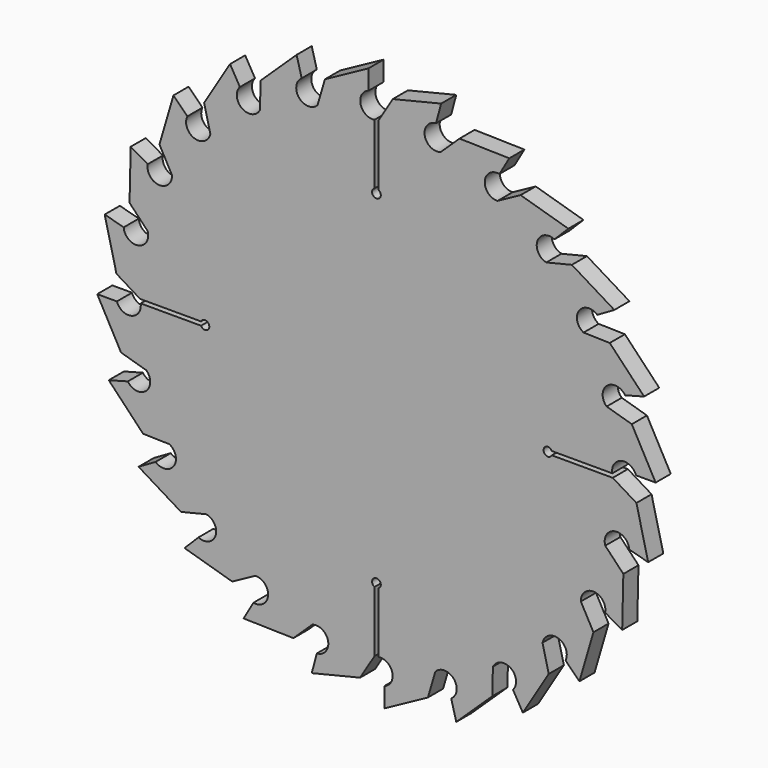
from build123d import *

# Parameters (mm, degrees)
F0_R     = 38.1
F1_DEPTH = 1.27
F3_DEPTH = 2.54
F5_DEPTH = 2.541


with BuildPart() as f1:
    # F0 (on Front) → F1 (new body, symmetric)
    with BuildSketch(Plane.XZ):
        Circle(F0_R)
    extrude(amount=F1_DEPTH, both=True)

    # F2 (on face) → F3 (cut, through all)
    with BuildSketch(Plane.XZ.offset(1.27)):
        with BuildLine():
            Line((-34.9328910038, 2.1948725499), (-36.7977497972, 9.8760118399))
            ThreePointArc((-36.7977497972, 9.8760118399), (-37.8382958676, 4.4579553426), (-38.0854299426, -1.0535777546))
            Line((-38.0854299426, -1.0535777546), (-34.8715856671, -1.0535777546))
            ThreePointArc((-34.8715856671, -1.0535777546), (-32.9092700161, -2.1243996615), (-31.6864005445, -0.2530545501))
            Line((-31.6864005445, -0.2530545501), (-23.5669963196, -0.2530545501))
            ThreePointArc((-23.5669963196, -0.2530545501), (-22.4566065273, 0.0009454499), (-23.5669963196, 0.2549454499))
            Line((-23.5669963196, 0.2549454499), (-31.7489764058, 0.2549454499))
            Line((-31.7489764058, 0.2549454499), (-34.9328910038, 2.1948725499))
        make_face()
        with BuildLine():
            Line((0.2530545501, -31.6864005445), (0.2530545501, -23.5669963196))
            ThreePointArc((0.2530545501, -23.5669963196), (-0.0009454499, -22.4566065273), (-0.2549454499, -23.5669963196))
            Line((-0.2549454499, -23.5669963196), (-0.2549454499, -31.7489764058))
            Line((-0.2549454499, -31.7489764058), (-2.1948725499, -34.9328910038))
            Line((-2.1948725499, -34.9328910038), (-9.8760118399, -36.7977497972))
            ThreePointArc((-9.8760118399, -36.7977497972), (-4.4579553426, -37.8382958676), (1.0535777546, -38.0854299426))
            Line((1.0535777546, -38.0854299426), (1.0535777546, -34.8715856671))
            ThreePointArc((1.0535777546, -34.8715856671), (2.1243996615, -32.9092700161), (0.2530545501, -31.6864005445))
        make_face()
        with BuildLine():
            Line((31.6864005445, 0.2530545501), (23.5669963196, 0.2530545501))
            ThreePointArc((23.5669963196, 0.2530545501), (22.4566065273, -0.0009454499), (23.5669963196, -0.2549454499))
            Line((23.5669963196, -0.2549454499), (31.7489764058, -0.2549454499))
            Line((31.7489764058, -0.2549454499), (34.9328910038, -2.1948725499))
            Line((34.9328910038, -2.1948725499), (36.7977497972, -9.8760118399))
            ThreePointArc((36.7977497972, -9.8760118399), (37.8382958676, -4.4579553426), (38.0854299426, 1.0535777546))
            Line((38.0854299426, 1.0535777546), (34.8715856671, 1.0535777546))
            ThreePointArc((34.8715856671, 1.0535777546), (32.9092700161, 2.1243996615), (31.6864005445, 0.2530545501))
        make_face()
        with BuildLine():
            Line((-0.2530545501, 31.6864005445), (-0.2530545501, 23.5669963196))
            ThreePointArc((-0.2530545501, 23.5669963196), (0.0009454499, 22.4566065273), (0.2549454499, 23.5669963196))
            Line((0.2549454499, 23.5669963196), (0.2549454499, 31.7489764058))
            Line((0.2549454499, 31.7489764058), (2.1948725499, 34.9328910038))
            Line((2.1948725499, 34.9328910038), (9.8760118399, 36.7977497972))
            ThreePointArc((9.8760118399, 36.7977497972), (4.4579553426, 37.8382958676), (-1.0535777546, 38.0854299426))
            Line((-1.0535777546, 38.0854299426), (-1.0535777546, 34.8715856671))
            ThreePointArc((-1.0535777546, 34.8715856671), (-2.1243996615, 32.9092700161), (-0.2530545501, 31.6864005445))
        make_face()
    extrude(amount=-F3_DEPTH, mode=Mode.SUBTRACT)

    # F4 (on face) + F1_face1 (on face) → F5 (cut, through all)
    with BuildSketch(Plane.XZ.offset(1.27)):
        with BuildLine():
            ThreePointArc((-33.5097387217, 18.1302898709), (-35.3951834564, 14.0993258026), (-36.7977497972, 9.8760118399))
            Line((-36.7977497972, 9.8760118399), (-36.5103317646, 8.6921699581))
            Line((-36.5103317646, 8.6921699581), (-33.9560511879, 8.0077525404))
            ThreePointArc((-33.9560511879, 8.0077525404), (-32.0081116741, 6.4936248892), (-30.7420684828, 8.611214446))
            Line((-30.7420684828, 8.611214446), (-33.17450679, 11.1613815736))
            Line((-33.17450679, 11.1613815736), (-33.0165732493, 17.8455606527))
            Line((-33.0165732493, 17.8455606527), (-33.5097387217, 18.1302898709))
        make_face()
        with BuildLine():
            Line((-36.5103317646, 8.6921699581), (-36.7977497972, 9.8760118399))
            ThreePointArc((-36.7977497972, 9.8760118399), (-36.9327040651, 9.3587055963), (-37.0603863753, 8.8395566469))
            Line((-37.0603863753, 8.8395566469), (-36.5103317646, 8.6921699581))
        make_face()
        with BuildLine():
            Line((-34.9328910038, 2.1948725499), (-36.5103317646, 8.6921699581))
            Line((-36.5103317646, 8.6921699581), (-37.0603863753, 8.8395566469))
            ThreePointArc((-37.0603863753, 8.8395566469), (-37.8382958676, 4.4579553426), (-38.0999968323, 0.0155364324))
            Line((-38.0999968323, 0.0155364324), (-37.5159715062, -1.0535777546))
            Line((-37.5159715062, -1.0535777546), (-34.8715856671, -1.0535777546))
            ThreePointArc((-34.8715856671, -1.0535777546), (-32.5981355098, -2.0119489123), (-31.9233042012, 0.36116162))
            Line((-31.9233042012, 0.36116162), (-34.9328910038, 2.1948725499))
        make_face()
        with BuildLine():
            ThreePointArc((-32.9877969246, 19.0634533613), (-33.2520414454, 18.5987026353), (-33.5097387217, 18.1302898709))
            Line((-33.5097387217, 18.1302898709), (-33.0165732493, 17.8455606527))
            Line((-33.0165732493, 17.8455606527), (-32.9877969246, 19.0634533613))
        make_face()
        with BuildLine():
            Line((-37.5159715062, -1.0535777546), (-38.0999968323, 0.0155364324))
            ThreePointArc((-38.0999968323, 0.0155364324), (-38.096463937, -0.5190717631), (-38.0854299426, -1.0535777546))
            Line((-38.0854299426, -1.0535777546), (-37.5159715062, -1.0535777546))
        make_face()
        with BuildLine():
            ThreePointArc((-27.6754577517, 26.185473802), (-30.539947786, 22.7798505094), (-32.9877969246, 19.0634533613))
            Line((-32.9877969246, 19.0634533613), (-33.0165732493, 17.8455606527))
            Line((-33.0165732493, 17.8455606527), (-30.7264679353, 16.5233677332))
            ThreePointArc((-30.7264679353, 16.5233677332), (-29.2367879237, 14.5566688857), (-27.465811601, 16.2744272383))
            Line((-27.465811601, 16.2744272383), (-29.155334762, 19.3672608881))
            Line((-29.155334762, 19.3672608881), (-27.2727898297, 25.78280588))
            Line((-27.2727898297, 25.78280588), (-27.6754577517, 26.185473802))
        make_face()
        with BuildLine():
            Line((-37.5159715062, -1.0535777546), (-38.0854299426, -1.0535777546))
            ThreePointArc((-38.0854299426, -1.0535777546), (-37.7027909462, -5.4872174069), (-36.8057920464, -9.8459977572))
            Line((-36.8057920464, -9.8459977572), (-35.9649597878, -10.7275258845))
            Line((-35.9649597878, -10.7275258845), (-33.4106792111, -10.0431084668))
            ThreePointArc((-33.4106792111, -10.0431084668), (-30.9666502816, -10.3804117204), (-30.929019494, -7.9135037737))
            Line((-30.929019494, -7.9135037737), (-34.310656425, -6.9212134109))
            Line((-34.310656425, -6.9212134109), (-37.5159715062, -1.0535777546))
        make_face()
        with BuildLine():
            ThreePointArc((-26.9297802065, 26.95175204), (-27.3053071527, 26.5712288255), (-27.6754577517, 26.185473802))
            Line((-27.6754577517, 26.185473802), (-27.2727898297, 25.78280588))
            Line((-27.2727898297, 25.78280588), (-26.9297802065, 26.95175204))
        make_face()
        with BuildLine():
            Line((-35.9649597878, -10.7275258845), (-36.8057920464, -9.8459977572))
            ThreePointArc((-36.8057920464, -9.8459977572), (-36.664012749, -10.3614752396), (-36.5150143985, -10.8749125733))
            Line((-36.5150143985, -10.8749125733), (-35.9649597878, -10.7275258845))
        make_face()
        with BuildLine():
            ThreePointArc((-19.9551400717, 32.456160967), (-23.6034651436, 29.9079660495), (-26.9297802065, 26.95175204))
            Line((-26.9297802065, 26.95175204), (-27.2727898297, 25.78280588))
            Line((-27.2727898297, 25.78280588), (-25.4029266708, 23.9129427211))
            ThreePointArc((-25.4029266708, 23.9129427211), (-24.4730253924, 21.6276999538), (-22.317805048, 22.8285647091))
            Line((-22.317805048, 22.8285647091), (-23.1492748514, 26.2532933791))
            Line((-23.1492748514, 26.2532933791), (-19.6704108535, 31.9629954947))
            Line((-19.6704108535, 31.9629954947), (-19.9551400717, 32.456160967))
        make_face()
        with BuildLine():
            Line((-35.9649597878, -10.7275258845), (-36.5150143985, -10.8749125733))
            ThreePointArc((-36.5150143985, -10.8749125733), (-34.9979031285, -15.0584453582), (-33.0033333571, -19.036543471))
            Line((-33.0033333571, -19.036543471), (-31.9629954947, -19.6704108535))
            Line((-31.9629954947, -19.6704108535), (-29.6728901807, -18.348217934))
            ThreePointArc((-29.6728901807, -18.348217934), (-27.2248390114, -18.0414666241), (-27.8269732209, -15.6488769628))
            Line((-27.8269732209, -15.6488769628), (-31.3502073118, -15.5656301156))
            Line((-31.3502073118, -15.5656301156), (-35.9649597878, -10.7275258845))
        make_face()
        with BuildLine():
            ThreePointArc((-19.036543471, 33.0033333571), (-19.4977613017, 32.7329696823), (-19.9551400717, 32.456160967))
            Line((-19.9551400717, 32.456160967), (-19.6704108535, 31.9629954947))
            Line((-19.6704108535, 31.9629954947), (-19.036543471, 33.0033333571))
        make_face()
        with BuildLine():
            Line((-31.9629954947, -19.6704108535), (-33.0033333571, -19.036543471))
            ThreePointArc((-33.0033333571, -19.036543471), (-32.7329696823, -19.4977613017), (-32.456160967, -19.9551400717))
            Line((-32.456160967, -19.9551400717), (-31.9629954947, -19.6704108535))
        make_face()
        with BuildLine():
            ThreePointArc((-10.8749125733, 36.5150143985), (-15.0584453582, 34.9979031285), (-19.036543471, 33.0033333571))
            Line((-19.036543471, 33.0033333571), (-19.6704108535, 31.9629954947))
            Line((-19.6704108535, 31.9629954947), (-18.348217934, 29.6728901807))
            ThreePointArc((-18.348217934, 29.6728901807), (-18.0414666241, 27.2248390114), (-15.6488769628, 27.8269732209))
            Line((-15.6488769628, 27.8269732209), (-15.5656301156, 31.3502073118))
            Line((-15.5656301156, 31.3502073118), (-10.7275258845, 35.9649597878))
            Line((-10.7275258845, 35.9649597878), (-10.8749125733, 36.5150143985))
        make_face()
        with BuildLine():
            Line((-31.9629954947, -19.6704108535), (-32.456160967, -19.9551400717))
            ThreePointArc((-32.456160967, -19.9551400717), (-29.9079660495, -23.6034651436), (-26.95175204, -26.9297802065))
            Line((-26.95175204, -26.9297802065), (-25.78280588, -27.2727898297))
            Line((-25.78280588, -27.2727898297), (-23.9129427211, -25.4029266708))
            ThreePointArc((-23.9129427211, -25.4029266708), (-21.6276999538, -24.4730253924), (-22.8285647091, -22.317805048))
            Line((-22.8285647091, -22.317805048), (-26.2532933791, -23.1492748514))
            Line((-26.2532933791, -23.1492748514), (-31.9629954947, -19.6704108535))
        make_face()
        with BuildLine():
            ThreePointArc((-9.8459977572, 36.8057920464), (-10.3614752396, 36.664012749), (-10.8749125733, 36.5150143985))
            Line((-10.8749125733, 36.5150143985), (-10.7275258845, 35.9649597878))
            Line((-10.7275258845, 35.9649597878), (-9.8459977572, 36.8057920464))
        make_face()
        with BuildLine():
            Line((-25.78280588, -27.2727898297), (-26.95175204, -26.9297802065))
            ThreePointArc((-26.95175204, -26.9297802065), (-26.5712288255, -27.3053071527), (-26.185473802, -27.6754577517))
            Line((-26.185473802, -27.6754577517), (-25.78280588, -27.2727898297))
        make_face()
        with BuildLine():
            ThreePointArc((-1.0535777546, 38.0854299426), (-5.4872174069, 37.7027909462), (-9.8459977572, 36.8057920464))
            Line((-9.8459977572, 36.8057920464), (-10.7275258845, 35.9649597878))
            Line((-10.7275258845, 35.9649597878), (-10.0431084668, 33.4106792111))
            ThreePointArc((-10.0431084668, 33.4106792111), (-10.3804117204, 30.9666502816), (-7.9135037737, 30.929019494))
            Line((-7.9135037737, 30.929019494), (-6.9212134109, 34.310656425))
            Line((-6.9212134109, 34.310656425), (-1.0535777546, 37.5159715062))
            Line((-1.0535777546, 37.5159715062), (-1.0535777546, 38.0854299426))
        make_face()
        with BuildLine():
            Line((-25.78280588, -27.2727898297), (-26.185473802, -27.6754577517))
            ThreePointArc((-26.185473802, -27.6754577517), (-22.7798505094, -30.539947786), (-19.0634533613, -32.9877969246))
            Line((-19.0634533613, -32.9877969246), (-17.8455606527, -33.0165732493))
            Line((-17.8455606527, -33.0165732493), (-16.5233677332, -30.7264679353))
            ThreePointArc((-16.5233677332, -30.7264679353), (-14.5566688857, -29.2367879237), (-16.2744272383, -27.465811601))
            Line((-16.2744272383, -27.465811601), (-19.3672608881, -29.155334762))
            Line((-19.3672608881, -29.155334762), (-25.78280588, -27.2727898297))
        make_face()
        with BuildLine():
            ThreePointArc((0.0155364324, 38.0999968323), (-0.5190717631, 38.096463937), (-1.0535777546, 38.0854299426))
            Line((-1.0535777546, 38.0854299426), (-1.0535777546, 37.5159715062))
            Line((-1.0535777546, 37.5159715062), (0.0155364324, 38.0999968323))
        make_face()
        with BuildLine():
            Line((-17.8455606527, -33.0165732493), (-19.0634533613, -32.9877969246))
            ThreePointArc((-19.0634533613, -32.9877969246), (-18.5987026353, -33.2520414454), (-18.1302898709, -33.5097387217))
            Line((-18.1302898709, -33.5097387217), (-17.8455606527, -33.0165732493))
        make_face()
        with BuildLine():
            ThreePointArc((8.8395566469, 37.0603863753), (4.4579553426, 37.8382958676), (0.0155364324, 38.0999968323))
            Line((0.0155364324, 38.0999968323), (-1.0535777546, 37.5159715062))
            Line((-1.0535777546, 37.5159715062), (-1.0535777546, 34.8715856671))
            ThreePointArc((-1.0535777546, 34.8715856671), (-2.0119489123, 32.5981355098), (0.36116162, 31.9233042012))
            Line((0.36116162, 31.9233042012), (2.1948725499, 34.9328910038))
            Line((2.1948725499, 34.9328910038), (8.6921699581, 36.5103317646))
            Line((8.6921699581, 36.5103317646), (8.8395566469, 37.0603863753))
        make_face()
        with BuildLine():
            Line((-17.8455606527, -33.0165732493), (-18.1302898709, -33.5097387217))
            ThreePointArc((-18.1302898709, -33.5097387217), (-14.0993258026, -35.3951834564), (-9.8760118399, -36.7977497972))
            Line((-9.8760118399, -36.7977497972), (-8.6921699581, -36.5103317646))
            Line((-8.6921699581, -36.5103317646), (-8.0077525404, -33.9560511879))
            ThreePointArc((-8.0077525404, -33.9560511879), (-6.4936248892, -32.0081116741), (-8.611214446, -30.7420684828))
            Line((-8.611214446, -30.7420684828), (-11.1613815736, -33.17450679))
            Line((-11.1613815736, -33.17450679), (-17.8455606527, -33.0165732493))
        make_face()
        with BuildLine():
            ThreePointArc((9.8760118399, 36.7977497972), (9.3587055963, 36.9327040651), (8.8395566469, 37.0603863753))
            Line((8.8395566469, 37.0603863753), (8.6921699581, 36.5103317646))
            Line((8.6921699581, 36.5103317646), (9.8760118399, 36.7977497972))
        make_face()
        with BuildLine():
            Line((-8.6921699581, -36.5103317646), (-9.8760118399, -36.7977497972))
            ThreePointArc((-9.8760118399, -36.7977497972), (-9.3587055963, -36.9327040651), (-8.8395566469, -37.0603863753))
            Line((-8.8395566469, -37.0603863753), (-8.6921699581, -36.5103317646))
        make_face()
        with BuildLine():
            ThreePointArc((18.1302898709, 33.5097387217), (14.0993258026, 35.3951834564), (9.8760118399, 36.7977497972))
            Line((9.8760118399, 36.7977497972), (8.6921699581, 36.5103317646))
            Line((8.6921699581, 36.5103317646), (8.0077525404, 33.9560511879))
            ThreePointArc((8.0077525404, 33.9560511879), (6.4936248892, 32.0081116741), (8.611214446, 30.7420684828))
            Line((8.611214446, 30.7420684828), (11.1613815736, 33.17450679))
            Line((11.1613815736, 33.17450679), (17.8455606527, 33.0165732493))
            Line((17.8455606527, 33.0165732493), (18.1302898709, 33.5097387217))
        make_face()
        with BuildLine():
            Line((-8.6921699581, -36.5103317646), (-8.8395566469, -37.0603863753))
            ThreePointArc((-8.8395566469, -37.0603863753), (-4.4579553426, -37.8382958676), (-0.0155364324, -38.0999968323))
            Line((-0.0155364324, -38.0999968323), (1.0535777546, -37.5159715062))
            Line((1.0535777546, -37.5159715062), (1.0535777546, -34.8715856671))
            ThreePointArc((1.0535777546, -34.8715856671), (2.0119489123, -32.5981355098), (-0.36116162, -31.9233042012))
            Line((-0.36116162, -31.9233042012), (-2.1948725499, -34.9328910038))
            Line((-2.1948725499, -34.9328910038), (-8.6921699581, -36.5103317646))
        make_face()
        with BuildLine():
            ThreePointArc((19.0634533613, 32.9877969246), (18.5987026353, 33.2520414454), (18.1302898709, 33.5097387217))
            Line((18.1302898709, 33.5097387217), (17.8455606527, 33.0165732493))
            Line((17.8455606527, 33.0165732493), (19.0634533613, 32.9877969246))
        make_face()
        with BuildLine():
            Line((1.0535777546, -37.5159715062), (-0.0155364324, -38.0999968323))
            ThreePointArc((-0.0155364324, -38.0999968323), (0.5190717631, -38.096463937), (1.0535777546, -38.0854299426))
            Line((1.0535777546, -38.0854299426), (1.0535777546, -37.5159715062))
        make_face()
        with BuildLine():
            ThreePointArc((26.185473802, 27.6754577517), (22.7798505094, 30.539947786), (19.0634533613, 32.9877969246))
            Line((19.0634533613, 32.9877969246), (17.8455606527, 33.0165732493))
            Line((17.8455606527, 33.0165732493), (16.5233677332, 30.7264679353))
            ThreePointArc((16.5233677332, 30.7264679353), (14.5566688857, 29.2367879237), (16.2744272383, 27.465811601))
            Line((16.2744272383, 27.465811601), (19.3672608881, 29.155334762))
            Line((19.3672608881, 29.155334762), (25.78280588, 27.2727898297))
            Line((25.78280588, 27.2727898297), (26.185473802, 27.6754577517))
        make_face()
        with BuildLine():
            Line((1.0535777546, -37.5159715062), (1.0535777546, -38.0854299426))
            ThreePointArc((1.0535777546, -38.0854299426), (5.4872174069, -37.7027909462), (9.8459977572, -36.8057920464))
            Line((9.8459977572, -36.8057920464), (10.7275258845, -35.9649597878))
            Line((10.7275258845, -35.9649597878), (10.0431084668, -33.4106792111))
            ThreePointArc((10.0431084668, -33.4106792111), (10.3804117204, -30.9666502816), (7.9135037737, -30.929019494))
            Line((7.9135037737, -30.929019494), (6.9212134109, -34.310656425))
            Line((6.9212134109, -34.310656425), (1.0535777546, -37.5159715062))
        make_face()
        with BuildLine():
            ThreePointArc((26.95175204, 26.9297802065), (26.5712288255, 27.3053071527), (26.185473802, 27.6754577517))
            Line((26.185473802, 27.6754577517), (25.78280588, 27.2727898297))
            Line((25.78280588, 27.2727898297), (26.95175204, 26.9297802065))
        make_face()
        with BuildLine():
            Line((10.7275258845, -35.9649597878), (9.8459977572, -36.8057920464))
            ThreePointArc((9.8459977572, -36.8057920464), (10.3614752396, -36.664012749), (10.8749125733, -36.5150143985))
            Line((10.8749125733, -36.5150143985), (10.7275258845, -35.9649597878))
        make_face()
        with BuildLine():
            ThreePointArc((32.456160967, 19.9551400717), (29.9079660495, 23.6034651436), (26.95175204, 26.9297802065))
            Line((26.95175204, 26.9297802065), (25.78280588, 27.2727898297))
            Line((25.78280588, 27.2727898297), (23.9129427211, 25.4029266708))
            ThreePointArc((23.9129427211, 25.4029266708), (21.6276999538, 24.4730253924), (22.8285647091, 22.317805048))
            Line((22.8285647091, 22.317805048), (26.2532933791, 23.1492748514))
            Line((26.2532933791, 23.1492748514), (31.9629954947, 19.6704108535))
            Line((31.9629954947, 19.6704108535), (32.456160967, 19.9551400717))
        make_face()
        with BuildLine():
            Line((10.7275258845, -35.9649597878), (10.8749125733, -36.5150143985))
            ThreePointArc((10.8749125733, -36.5150143985), (15.0584453582, -34.9979031285), (19.036543471, -33.0033333571))
            Line((19.036543471, -33.0033333571), (19.6704108535, -31.9629954947))
            Line((19.6704108535, -31.9629954947), (18.348217934, -29.6728901807))
            ThreePointArc((18.348217934, -29.6728901807), (18.0414666241, -27.2248390114), (15.6488769628, -27.8269732209))
            Line((15.6488769628, -27.8269732209), (15.5656301156, -31.3502073118))
            Line((15.5656301156, -31.3502073118), (10.7275258845, -35.9649597878))
        make_face()
        with BuildLine():
            ThreePointArc((33.0033333571, 19.036543471), (32.7329696823, 19.4977613017), (32.456160967, 19.9551400717))
            Line((32.456160967, 19.9551400717), (31.9629954947, 19.6704108535))
            Line((31.9629954947, 19.6704108535), (33.0033333571, 19.036543471))
        make_face()
        with BuildLine():
            Line((19.6704108535, -31.9629954947), (19.036543471, -33.0033333571))
            ThreePointArc((19.036543471, -33.0033333571), (19.4977613017, -32.7329696823), (19.9551400717, -32.456160967))
            Line((19.9551400717, -32.456160967), (19.6704108535, -31.9629954947))
        make_face()
        with BuildLine():
            ThreePointArc((36.5150143985, 10.8749125733), (34.9979031285, 15.0584453582), (33.0033333571, 19.036543471))
            Line((33.0033333571, 19.036543471), (31.9629954947, 19.6704108535))
            Line((31.9629954947, 19.6704108535), (29.6728901807, 18.348217934))
            ThreePointArc((29.6728901807, 18.348217934), (27.2248390114, 18.0414666241), (27.8269732209, 15.6488769628))
            Line((27.8269732209, 15.6488769628), (31.3502073118, 15.5656301156))
            Line((31.3502073118, 15.5656301156), (35.9649597878, 10.7275258845))
            Line((35.9649597878, 10.7275258845), (36.5150143985, 10.8749125733))
        make_face()
        with BuildLine():
            Line((19.6704108535, -31.9629954947), (19.9551400717, -32.456160967))
            ThreePointArc((19.9551400717, -32.456160967), (23.6034651436, -29.9079660495), (26.9297802065, -26.95175204))
            Line((26.9297802065, -26.95175204), (27.2727898297, -25.78280588))
            Line((27.2727898297, -25.78280588), (25.4029266708, -23.9129427211))
            ThreePointArc((25.4029266708, -23.9129427211), (24.4730253924, -21.6276999538), (22.317805048, -22.8285647091))
            Line((22.317805048, -22.8285647091), (23.1492748514, -26.2532933791))
            Line((23.1492748514, -26.2532933791), (19.6704108535, -31.9629954947))
        make_face()
        with BuildLine():
            ThreePointArc((36.8057920464, 9.8459977572), (36.664012749, 10.3614752396), (36.5150143985, 10.8749125733))
            Line((36.5150143985, 10.8749125733), (35.9649597878, 10.7275258845))
            Line((35.9649597878, 10.7275258845), (36.8057920464, 9.8459977572))
        make_face()
        with BuildLine():
            Line((27.2727898297, -25.78280588), (26.9297802065, -26.95175204))
            ThreePointArc((26.9297802065, -26.95175204), (27.3053071527, -26.5712288255), (27.6754577517, -26.185473802))
            Line((27.6754577517, -26.185473802), (27.2727898297, -25.78280588))
        make_face()
        with BuildLine():
            ThreePointArc((38.0854299426, 1.0535777546), (37.7027909462, 5.4872174069), (36.8057920464, 9.8459977572))
            Line((36.8057920464, 9.8459977572), (35.9649597878, 10.7275258845))
            Line((35.9649597878, 10.7275258845), (33.4106792111, 10.0431084668))
            ThreePointArc((33.4106792111, 10.0431084668), (30.9666502816, 10.3804117204), (30.929019494, 7.9135037737))
            Line((30.929019494, 7.9135037737), (34.310656425, 6.9212134109))
            Line((34.310656425, 6.9212134109), (37.5159715062, 1.0535777546))
            Line((37.5159715062, 1.0535777546), (38.0854299426, 1.0535777546))
        make_face()
        with BuildLine():
            Line((27.2727898297, -25.78280588), (27.6754577517, -26.185473802))
            ThreePointArc((27.6754577517, -26.185473802), (30.539947786, -22.7798505094), (32.9877969246, -19.0634533613))
            Line((32.9877969246, -19.0634533613), (33.0165732493, -17.8455606527))
            Line((33.0165732493, -17.8455606527), (30.7264679353, -16.5233677332))
            ThreePointArc((30.7264679353, -16.5233677332), (29.2367879237, -14.5566688857), (27.465811601, -16.2744272383))
            Line((27.465811601, -16.2744272383), (29.155334762, -19.3672608881))
            Line((29.155334762, -19.3672608881), (27.2727898297, -25.78280588))
        make_face()
        with BuildLine():
            ThreePointArc((38.0999968323, -0.0155364324), (38.096463937, 0.5190717631), (38.0854299426, 1.0535777546))
            Line((38.0854299426, 1.0535777546), (37.5159715062, 1.0535777546))
            Line((37.5159715062, 1.0535777546), (38.0999968323, -0.0155364324))
        make_face()
        with BuildLine():
            Line((33.0165732493, -17.8455606527), (32.9877969246, -19.0634533613))
            ThreePointArc((32.9877969246, -19.0634533613), (33.2520414454, -18.5987026353), (33.5097387217, -18.1302898709))
            Line((33.5097387217, -18.1302898709), (33.0165732493, -17.8455606527))
        make_face()
        with BuildLine():
            ThreePointArc((37.0603863753, -8.8395566469), (37.8382958676, -4.4579553426), (38.0999968323, -0.0155364324))
            Line((38.0999968323, -0.0155364324), (37.5159715062, 1.0535777546))
            Line((37.5159715062, 1.0535777546), (34.8715856671, 1.0535777546))
            ThreePointArc((34.8715856671, 1.0535777546), (32.5981355098, 2.0119489123), (31.9233042012, -0.36116162))
            Line((31.9233042012, -0.36116162), (34.9328910038, -2.1948725499))
            Line((34.9328910038, -2.1948725499), (36.5103317646, -8.6921699581))
            Line((36.5103317646, -8.6921699581), (37.0603863753, -8.8395566469))
        make_face()
        with BuildLine():
            Line((33.0165732493, -17.8455606527), (33.5097387217, -18.1302898709))
            ThreePointArc((33.5097387217, -18.1302898709), (35.3951834564, -14.0993258026), (36.7977497972, -9.8760118399))
            Line((36.7977497972, -9.8760118399), (36.5103317646, -8.6921699581))
            Line((36.5103317646, -8.6921699581), (33.9560511879, -8.0077525404))
            ThreePointArc((33.9560511879, -8.0077525404), (32.0081116741, -6.4936248892), (30.7420684828, -8.611214446))
            Line((30.7420684828, -8.611214446), (33.17450679, -11.1613815736))
            Line((33.17450679, -11.1613815736), (33.0165732493, -17.8455606527))
        make_face()
        with BuildLine():
            ThreePointArc((36.7977497972, -9.8760118399), (36.9327040651, -9.3587055963), (37.0603863753, -8.8395566469))
            Line((37.0603863753, -8.8395566469), (36.5103317646, -8.6921699581))
            Line((36.5103317646, -8.6921699581), (36.7977497972, -9.8760118399))
        make_face()
    with BuildSketch(Plane(origin=(0, 1.27, 0), x_dir=(1, 0, 0), z_dir=(0, 1, 0))):
        with BuildLine():
            Line((38.0854299426, -1.0535777546), (34.8715856671, -1.0535777546))
            ThreePointArc((34.8715856671, -1.0535777546), (32.9092700161, -2.1243996615), (31.6864005445, -0.2530545501))
            Line((31.6864005445, -0.2530545501), (23.5669963196, -0.2530545501))
            ThreePointArc((23.5669963196, -0.2530545501), (22.4566065273, 0.0009454499), (23.5669963196, 0.2549454499))
            Line((23.5669963196, 0.2549454499), (31.7489764058, 0.2549454499))
            Line((31.7489764058, 0.2549454499), (34.9328910038, 2.1948725499))
            Line((34.9328910038, 2.1948725499), (36.7977497972, 9.8760118399))
            ThreePointArc((36.7977497972, 9.8760118399), (23.6034651436, 29.9079660495), (1.0535777546, 38.0854299426))
            Line((1.0535777546, 38.0854299426), (1.0535777546, 34.8715856671))
            ThreePointArc((1.0535777546, 34.8715856671), (2.1243996615, 32.9092700161), (0.2530545501, 31.6864005445))
            Line((0.2530545501, 31.6864005445), (0.2530545501, 23.5669963196))
            ThreePointArc((0.2530545501, 23.5669963196), (-0.0009454499, 22.4566065273), (-0.2549454499, 23.5669963196))
            Line((-0.2549454499, 23.5669963196), (-0.2549454499, 31.7489764058))
            Line((-0.2549454499, 31.7489764058), (-2.1948725499, 34.9328910038))
            Line((-2.1948725499, 34.9328910038), (-9.8760118399, 36.7977497972))
            ThreePointArc((-9.8760118399, 36.7977497972), (-29.9079660495, 23.6034651436), (-38.0854299426, 1.0535777546))
            Line((-38.0854299426, 1.0535777546), (-34.8715856671, 1.0535777546))
            ThreePointArc((-34.8715856671, 1.0535777546), (-32.9092700161, 2.1243996615), (-31.6864005445, 0.2530545501))
            Line((-31.6864005445, 0.2530545501), (-23.5669963196, 0.2530545501))
            ThreePointArc((-23.5669963196, 0.2530545501), (-22.4566065273, -0.0009454499), (-23.5669963196, -0.2549454499))
            Line((-23.5669963196, -0.2549454499), (-31.7489764058, -0.2549454499))
            Line((-31.7489764058, -0.2549454499), (-34.9328910038, -2.1948725499))
            Line((-34.9328910038, -2.1948725499), (-36.7977497972, -9.8760118399))
            ThreePointArc((-36.7977497972, -9.8760118399), (-23.6034651436, -29.9079660495), (-1.0535777546, -38.0854299426))
            Line((-1.0535777546, -38.0854299426), (-1.0535777546, -34.8715856671))
            ThreePointArc((-1.0535777546, -34.8715856671), (-2.1243996615, -32.9092700161), (-0.2530545501, -31.6864005445))
            Line((-0.2530545501, -31.6864005445), (-0.2530545501, -23.5669963196))
            ThreePointArc((-0.2530545501, -23.5669963196), (0.0009454499, -22.4566065273), (0.2549454499, -23.5669963196))
            Line((0.2549454499, -23.5669963196), (0.2549454499, -31.7489764058))
            Line((0.2549454499, -31.7489764058), (2.1948725499, -34.9328910038))
            Line((2.1948725499, -34.9328910038), (9.8760118399, -36.7977497972))
            ThreePointArc((9.8760118399, -36.7977497972), (29.9079660495, -23.6034651436), (38.0854299426, -1.0535777546))
        make_face()
    extrude(amount=-F5_DEPTH, dir=(0, -1, 0), mode=Mode.SUBTRACT)


solid = f1.part
